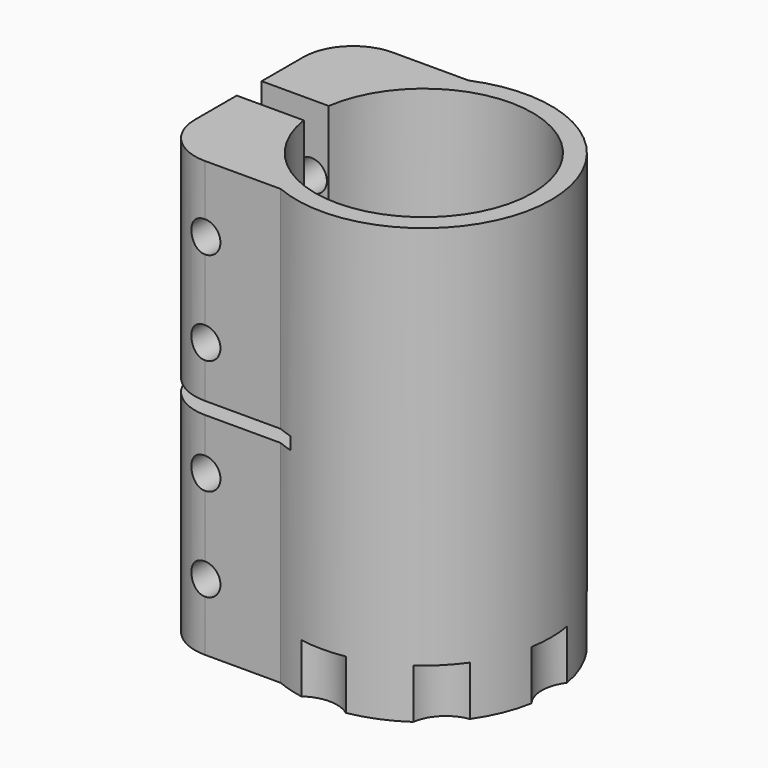
from build123d import *

# Parameters (mm, degrees)
F1_DEPTH       = 35
F3_D           = 5
F3_START       = 1.7550021
F3_CBORE_D     = 10
F3_CBORE_DEPTH = 8
F4_W           = 22.4
F4_H           = 2
F5_DEPTH       = 25
F7_DEPTH       = 8


with BuildPart() as f1:
    # F0 (on Top) → F1 (new body, symmetric)
    with BuildSketch(Plane.XY):
        with BuildLine():
            ThreePointArc((-17.3192642082, 2.5086026559), (1.2575524553, 17.4547575698), (17.5, 0))
            Line((17.5, 0), (20.5, 0))
            ThreePointArc((20.5, 0), (11.3557272715, 17.0674385347), (-7.9192642082, 18.9086026559))
            Line((-7.9192642082, 18.9086026559), (-20.1192642082, 18.9086026559))
            ThreePointArc((-20.1192642082, 18.9086026559), (-25.7761184577, 16.5654569054), (-28.1192642082, 10.9086026559))
            Line((-28.1192642082, 10.9086026559), (-28.1192642082, 2.5086026559))
            Line((-28.1192642082, 2.5086026559), (-17.3192642082, 2.5086026559))
        make_face()
        with BuildLine():
            ThreePointArc((17.5, 0), (1.2575524553, -17.4547575698), (-17.3192642082, -2.5086026559))
            Line((-17.3192642082, -2.5086026559), (-28.1192642082, -2.5086026559))
            Line((-28.1192642082, -2.5086026559), (-28.1192642082, -10.9086026559))
            ThreePointArc((-28.1192642082, -10.9086026559), (-25.7761184577, -16.5654569054), (-20.1192642082, -18.9086026559))
            Line((-20.1192642082, -18.9086026559), (-7.9192642082, -18.9086026559))
            ThreePointArc((-7.9192642082, -18.9086026559), (11.3557272715, -17.0674385347), (20.5, 0))
            Line((20.5, 0), (17.5, 0))
        make_face()
    extrude(amount=F1_DEPTH, both=True)

    # F3 (through all)
    # its depths count from where the whole tool has entered the part; down to there all is cleared
    with Locations(Plane(origin=(0, 18.9086026559, 0), x_dir=(-1, 0, 0), z_dir=(0, 1, 0)).offset(-F3_START)):
        with Locations((20.1192642082, -24.25), (20.1192642082, -9.25), (20.1192642082, 9.25), (20.1192642082, 24.25)):
            CounterBoreHole(F3_D / 2, F3_CBORE_D / 2, F3_CBORE_DEPTH)

    # F4 (on Front) → F5 (cut, symmetric)
    with BuildSketch(Plane.XZ):
        with Locations((-16.9192642082, 0)):
            Rectangle(F4_W, F4_H)
    extrude(amount=F5_DEPTH, both=True, mode=Mode.SUBTRACT)

    # F6 (on face) → F7 (cut)
    with BuildSketch(Plane(origin=(0, 0, -35), x_dir=(1, 0, 0), z_dir=(0, 0, -1))):
        with BuildLine():
            ThreePointArc((-3.5799127084, 20.185), (0, 20.5), (3.5799127084, 20.185))
            ThreePointArc((3.5799127084, 20.185), (5.3609456372, 22.305512688), (6, 25))
            ThreePointArc((6, 25), (-2.694487312, 30.3609456372), (-3.5799127084, 20.185))
        make_face()
        with BuildLine():
            ThreePointArc((11.7415698261, 16.8043309304), (14.4956890143, 14.4956890143), (16.8043309304, 11.7415698261))
            ThreePointArc((16.8043309304, 11.7415698261), (21.5994018258, 13.1367427743), (23.6776695297, 17.6776695297))
            ThreePointArc((23.6776695297, 17.6776695297), (17.2398329286, 23.6616731318), (11.7415698261, 16.8043309304))
        make_face()
        with BuildLine():
            ThreePointArc((20.185, 3.5799127084), (19, 0), (20.185, -3.5799127084))
            ThreePointArc((20.185, -3.5799127084), (20.5, 0), (20.185, 3.5799127084))
        make_face()
        with BuildLine():
            ThreePointArc((16.8043309304, -11.7415698261), (13.4350288425, -13.4350288425), (11.7415698261, -16.8043309304))
            ThreePointArc((11.7415698261, -16.8043309304), (14.4956890143, -14.4956890143), (16.8043309304, -11.7415698261))
        make_face()
        with BuildLine():
            ThreePointArc((-3.5799127084, -20.185), (0, -20.5), (3.5799127084, -20.185))
            ThreePointArc((3.5799127084, -20.185), (0, -19), (-3.5799127084, -20.185))
        make_face()
        with BuildLine():
            ThreePointArc((-3.5799127084, 20.185), (0, 19), (3.5799127084, 20.185))
            ThreePointArc((3.5799127084, 20.185), (0, 20.5), (-3.5799127084, 20.185))
        make_face()
        with BuildLine():
            ThreePointArc((11.7415698261, 16.8043309304), (13.4350288425, 13.4350288425), (16.8043309304, 11.7415698261))
            ThreePointArc((16.8043309304, 11.7415698261), (14.4956890143, 14.4956890143), (11.7415698261, 16.8043309304))
        make_face()
        with BuildLine():
            ThreePointArc((20.185, 3.5799127084), (20.5, 0), (20.185, -3.5799127084))
            ThreePointArc((20.185, -3.5799127084), (26.8854707635, -5.6960512638), (31, 0))
            ThreePointArc((31, 0), (26.8854707635, 5.6960512638), (20.185, 3.5799127084))
        make_face()
        with BuildLine():
            ThreePointArc((16.8043309304, -11.7415698261), (14.4956890143, -14.4956890143), (11.7415698261, -16.8043309304))
            ThreePointArc((11.7415698261, -16.8043309304), (17.2398329286, -23.6616731318), (23.6776695297, -17.6776695297))
            ThreePointArc((23.6776695297, -17.6776695297), (21.5994018258, -13.1367427743), (16.8043309304, -11.7415698261))
        make_face()
        with BuildLine():
            ThreePointArc((-3.5799127084, -20.185), (-2.694487312, -30.3609456372), (6, -25))
            ThreePointArc((6, -25), (5.3609456372, -22.305512688), (3.5799127084, -20.185))
            ThreePointArc((3.5799127084, -20.185), (0, -20.5), (-3.5799127084, -20.185))
        make_face()
    extrude(amount=-F7_DEPTH, mode=Mode.SUBTRACT)


solid = f1.part
